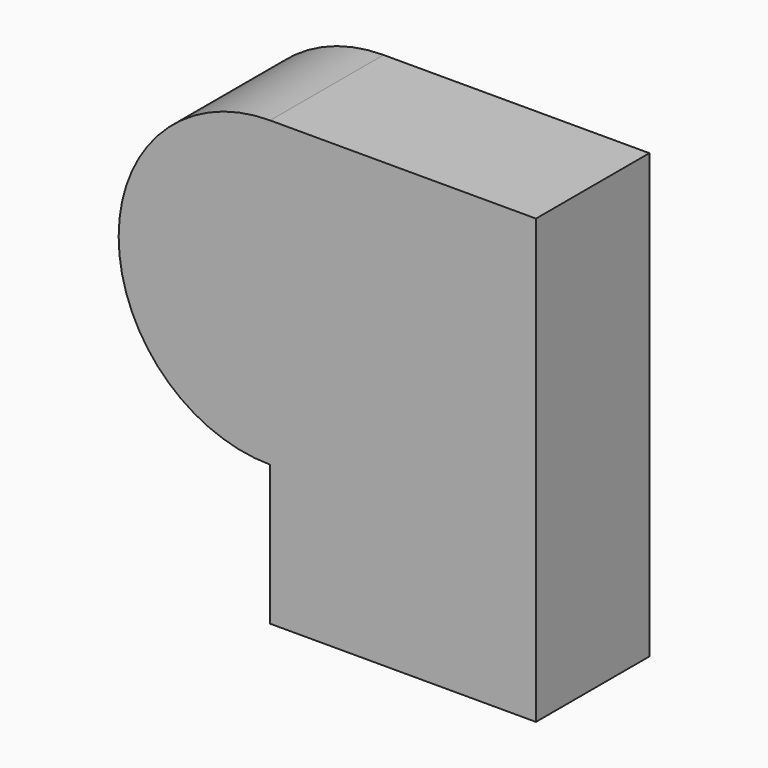
from build123d import *

# Parameters (mm, degrees)
F1_DEPTH = 25.3
F2_DEPTH = 25


with BuildPart() as f1:
    # F0 (on Front) → F1 (new body)
    with BuildSketch(Plane.XZ):
        with BuildLine():
            ThreePointArc((-47.4482923746, 31.4433462918), (-74.5009016246, 4.3907370418), (-47.4482923746, -22.6618722081))
            Line((-47.4482923746, -22.6618722081), (0, -22.6618722081))
            Line((0, -22.6618722081), (0, 31.4433462918))
            Line((0, 31.4433462918), (-47.4482923746, 31.4433462918))
        make_face()
    extrude(amount=F1_DEPTH)

    # F2 (add): faces of the model
    f2_faces = [f1.faces().sort_by_distance(p)[0] for p in [
        (-23.7241461873, -12.65, -22.6618722081),
        (-23.7241461873, -12.65, 31.4433462918),
    ]]
    extrude(f2_faces, amount=F2_DEPTH, dir=(0, 0, -1))


solid = f1.part
